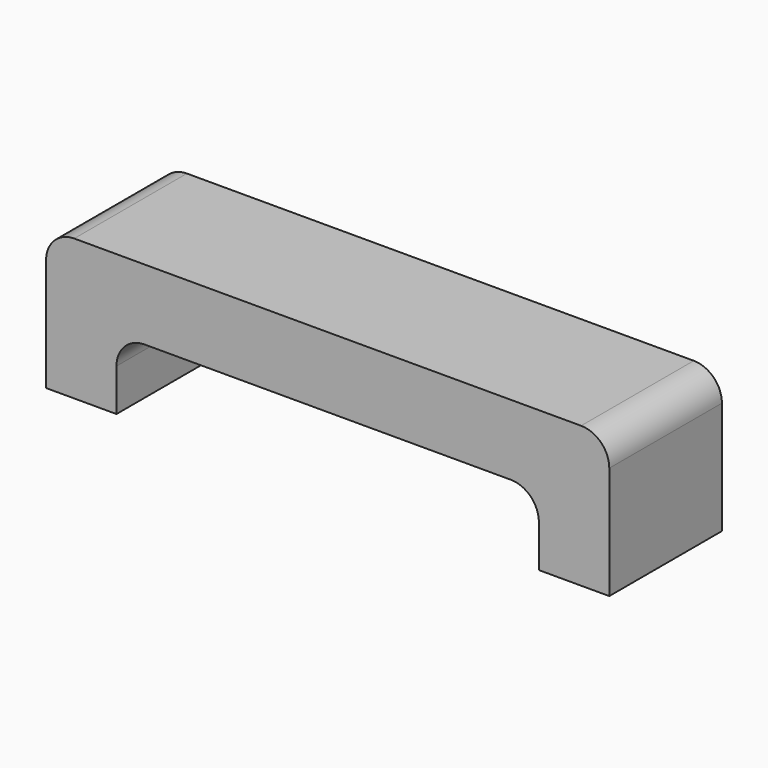
from build123d import *

# Parameters (mm, degrees)
F1_DEPTH = 12.7
F2_R     = 2.54


with BuildPart() as f1:
    # F0 (on Front) → F1 (new body)
    with BuildSketch(Plane.XZ):
        Polygon((-25.4, 0), (-25.4, -12.7), (-19.05, -12.7), (-19.05, -6.35), (19.05, -6.35), (19.05, -12.7), (25.4, -12.7), (25.4, 0), align=None)
    extrude(amount=-F1_DEPTH)

    # F2
    f2_edges = [f1.edges().sort_by_distance(p)[0] for p in [
        (-19.05, 6.35, -6.35),
        (19.05, 6.35, -6.35),
        (-25.4, 6.35, 0),
        (25.4, 6.35, 0),
    ]]
    fillet(f2_edges, radius=F2_R)


solid = f1.part
